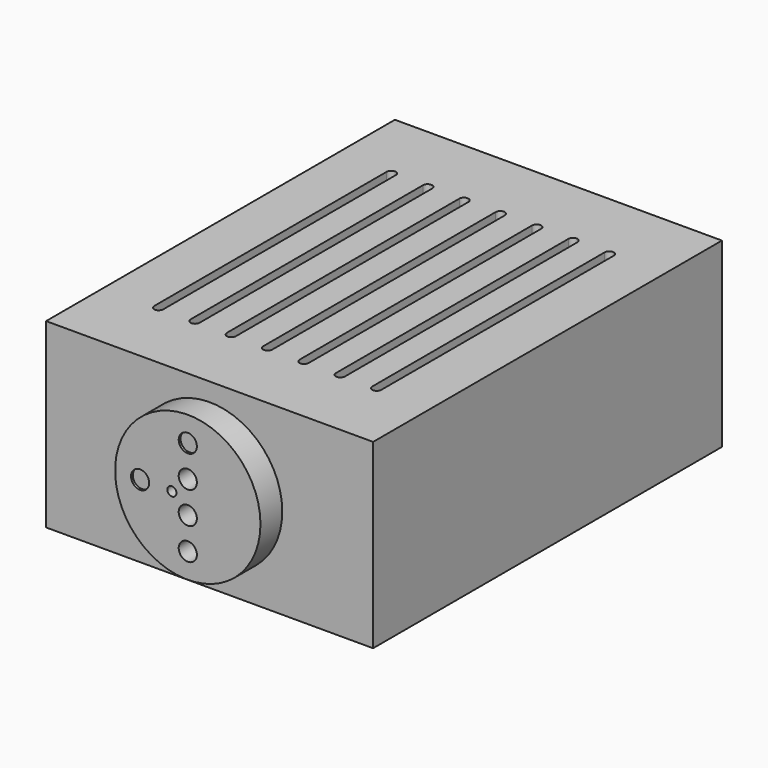
from build123d import *

# Parameters (mm, degrees)
F0_R     = 25.4
F0_R_2   = 3.175
F0_R_3   = 1.5875
F1_DEPTH = 9.525
F2_W     = 114.3
F2_H     = 63.5
F3_DEPTH = 152.4
F5_DEPTH = 3.175
F6_DEPTH = 0.79375
F7_DEPTH = 101.6


with BuildPart() as f1:
    # F0 (on Front) → F1 (new body)
    with BuildSketch(Plane.XZ):
        Circle(F0_R)
        with Locations((0, -16.66875)):
            Circle(F0_R_2, mode=Mode.SUBTRACT)
        with Locations((-16.66875, 0)):
            Circle(F0_R_2, mode=Mode.SUBTRACT)
        with Locations((0, -5.55625)):
            Circle(F0_R_2, mode=Mode.SUBTRACT)
        with Locations((-5.55625, 0)):
            Circle(F0_R_3, mode=Mode.SUBTRACT)
        with Locations((0, 5.55625)):
            Circle(F0_R_2, mode=Mode.SUBTRACT)
        with Locations((0, 16.66875)):
            Circle(F0_R_2, mode=Mode.SUBTRACT)
        with Locations((-16.66875, 0)):
            Circle(F0_R_2)
        with Locations((0, 16.66875)):
            Circle(F0_R_2)
    extrude(amount=-F1_DEPTH)

    # F2 (on face) → F3 (join)
    with BuildSketch(Plane(origin=(0, 9.525, 0), x_dir=(-1, 0, 0), z_dir=(0, 1, 0))):
        Rectangle(F2_W, F2_H)
    extrude(amount=F3_DEPTH)

    # F4 (on face) → F5 (cut)
    with BuildSketch(Plane.XY.offset(31.75)):
        with BuildLine():
            ThreePointArc((-1.5875, 34.925), (0, 33.3375), (1.5875, 34.925))
            Line((1.5875, 34.925), (1.5875, 136.525))
            ThreePointArc((1.5875, 136.525), (0, 138.1125), (-1.5875, 136.525))
            Line((-1.5875, 136.525), (-1.5875, 34.925))
        make_face()
        with BuildLine():
            Line((11.1125, 136.525), (11.1125, 34.925))
            ThreePointArc((11.1125, 34.925), (12.7, 33.3375), (14.2875, 34.925))
            Line((14.2875, 34.925), (14.2875, 136.525))
            ThreePointArc((14.2875, 136.525), (12.7, 138.1125), (11.1125, 136.525))
        make_face()
        with BuildLine():
            Line((23.8125, 136.525), (23.8125, 34.925))
            ThreePointArc((23.8125, 34.925), (25.4, 33.3375), (26.9875, 34.925))
            Line((26.9875, 34.925), (26.9875, 136.525))
            ThreePointArc((26.9875, 136.525), (25.4, 138.1125), (23.8125, 136.525))
        make_face()
        with BuildLine():
            Line((36.5125, 136.525), (36.5125, 34.925))
            ThreePointArc((36.5125, 34.925), (38.1, 33.3375), (39.6875, 34.925))
            Line((39.6875, 34.925), (39.6875, 136.525))
            ThreePointArc((39.6875, 136.525), (38.1, 138.1125), (36.5125, 136.525))
        make_face()
        with BuildLine():
            Line((-23.8125, 34.925), (-23.8125, 136.525))
            ThreePointArc((-23.8125, 136.525), (-25.4, 138.1125), (-26.9875, 136.525))
            Line((-26.9875, 136.525), (-26.9875, 34.925))
            ThreePointArc((-26.9875, 34.925), (-25.4, 33.3375), (-23.8125, 34.925))
        make_face()
        with BuildLine():
            Line((-11.1125, 34.925), (-11.1125, 136.525))
            ThreePointArc((-11.1125, 136.525), (-12.7, 138.1125), (-14.2875, 136.525))
            Line((-14.2875, 136.525), (-14.2875, 34.925))
            ThreePointArc((-14.2875, 34.925), (-12.7, 33.3375), (-11.1125, 34.925))
        make_face()
        with BuildLine():
            Line((-39.6875, 136.525), (-39.6875, 34.925))
            ThreePointArc((-39.6875, 34.925), (-38.1, 33.3375), (-36.5125, 34.925))
            Line((-36.5125, 34.925), (-36.5125, 136.525))
            ThreePointArc((-36.5125, 136.525), (-38.1, 138.1125), (-39.6875, 136.525))
        make_face()
    extrude(amount=-F5_DEPTH, mode=Mode.SUBTRACT)

    # F0 (on Front) → F6 (cut)
    with BuildSketch(Plane.XZ):
        with Locations((0, 16.66875)):
            Circle(F0_R_2)
        with Locations((-16.66875, 0)):
            Circle(F0_R_2)
    extrude(amount=-F6_DEPTH, mode=Mode.SUBTRACT)

    # F7 (cut): faces of the model
    f7_faces = [f1.faces().sort_by_distance(p)[0] for p in [
        (0, 9.525, 5.55625),
        (-5.55625, 9.525, 0),
        (0, 9.525, -5.55625),
        (0, 9.525, -16.66875),
    ]]
    extrude(f7_faces, amount=-F7_DEPTH, mode=Mode.SUBTRACT)


solid = f1.part
